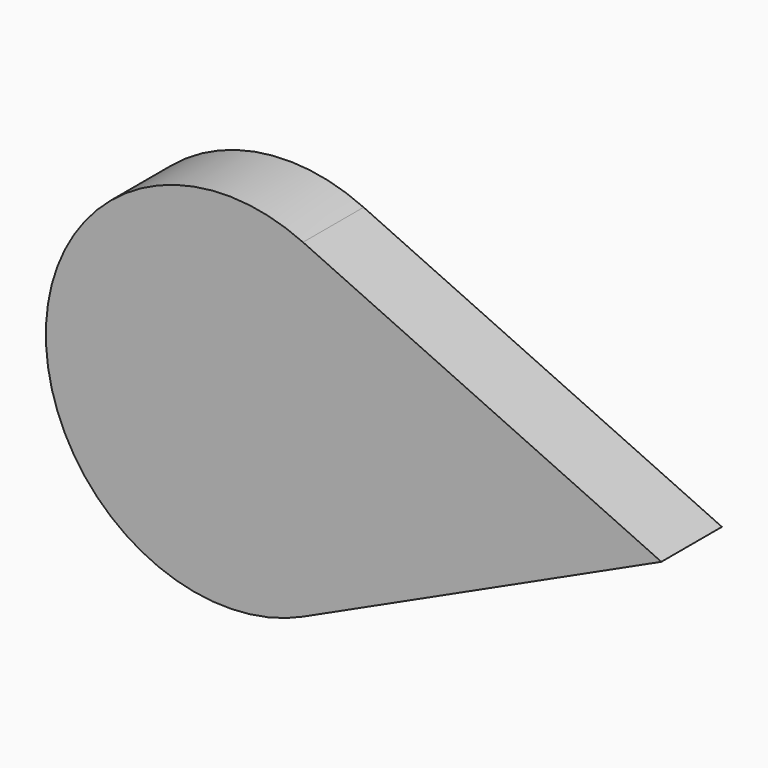
from build123d import *

# Parameters (mm, degrees)
F1_DEPTH = 25


with BuildPart() as f1:
    # F0 (on Front) → F1 (new body)
    with BuildSketch(Plane.XZ):
        with BuildLine():
            ThreePointArc((-25.367418, -54.43013), (0.043066, -32.323056), (9.510666, 0))
            ThreePointArc((9.510666, 0), (0.043066, 32.323056), (-25.367418, 54.43013))
            ThreePointArc((-25.367418, 54.43013), (-110.31013, 0), (-25.367418, -54.43013))
        make_face()
        with BuildLine():
            ThreePointArc((-25.367418, 54.43013), (0.043066, 32.323056), (9.510666, 0))
            ThreePointArc((9.510666, 0), (0.043066, -32.323056), (-25.367418, -54.43013))
            Line((-25.367418, -54.43013), (92.985168, 0))
            Line((92.985168, 0), (-25.367418, 54.43013))
        make_face()
    extrude(amount=F1_DEPTH)


solid = f1.part
